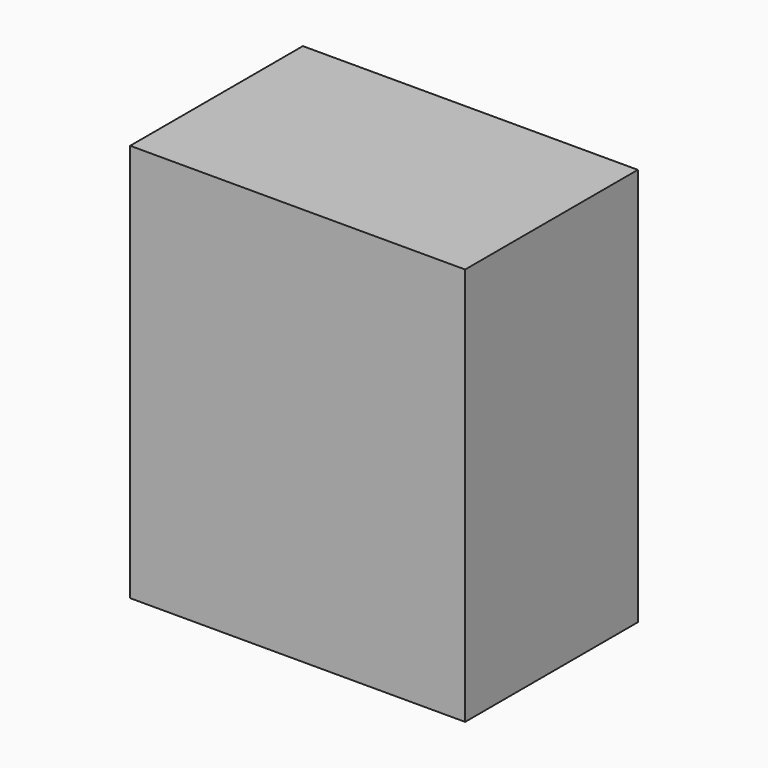
from build123d import *

# Parameters (mm, degrees)
F0_W     = 61.090428
F0_H     = 72.638464
F1_DEPTH = 39.37


with BuildPart() as f1:
    # F0 (on Front) → F1 (new body)
    with BuildSketch(Plane.XZ):
        with Locations((2e-06, -2.723774)):
            Rectangle(F0_W, F0_H)
    extrude(amount=F1_DEPTH)


solid = f1.part
